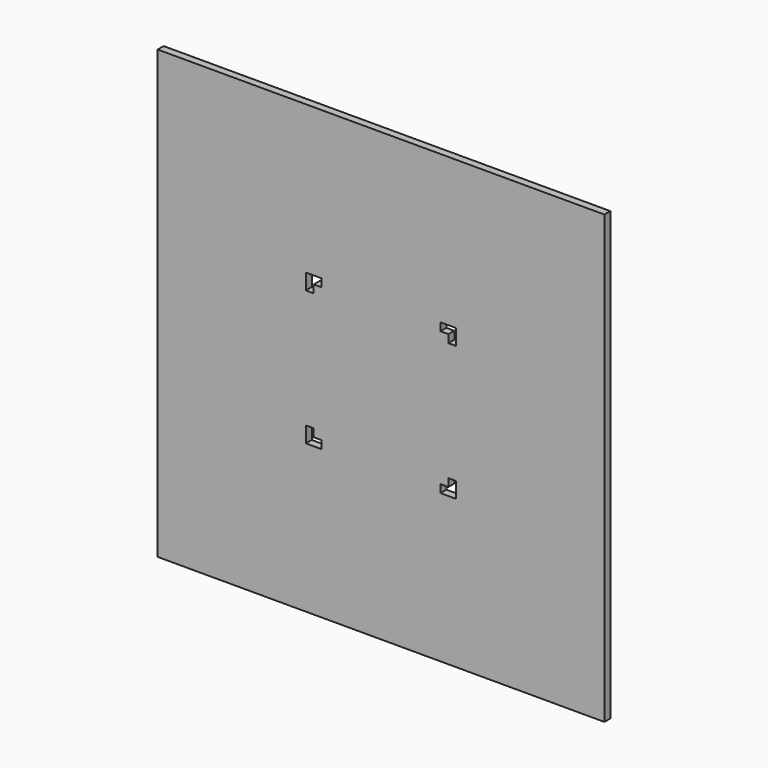
from build123d import *

# Parameters (mm, degrees)
F0_W     = 300
F0_H     = 300
F1_DEPTH = 5


with BuildPart() as f1:
    # F0 (on Front) → F1 (new body)
    with BuildSketch(Plane.XZ):
        Rectangle(F0_W, F0_H)
        Polygon((-45.2, -50.5), (-50.5, -50.5), (-50.5, -45.2), (-50.5, -39.9), (-45.2, -39.9), (-45.2, -45.2), (-39.9, -45.2), (-39.9, -50.5), align=None, mode=Mode.SUBTRACT)
        Polygon((45.2, -50.5), (39.9, -50.5), (39.9, -45.2), (45.2, -45.2), (45.2, -39.9), (50.5, -39.9), (50.5, -45.2), (50.5, -50.5), align=None, mode=Mode.SUBTRACT)
        Polygon((-50.5, 45.2), (-50.5, 50.5), (-45.2, 50.5), (-39.9, 50.5), (-39.9, 45.2), (-45.2, 45.2), (-45.2, 39.9), (-50.5, 39.9), align=None, mode=Mode.SUBTRACT)
        Polygon((45.2, 50.5), (50.5, 50.5), (50.5, 45.2), (50.5, 39.9), (45.2, 39.9), (45.2, 45.2), (39.9, 45.2), (39.9, 50.5), align=None, mode=Mode.SUBTRACT)
    extrude(amount=F1_DEPTH)


solid = f1.part
